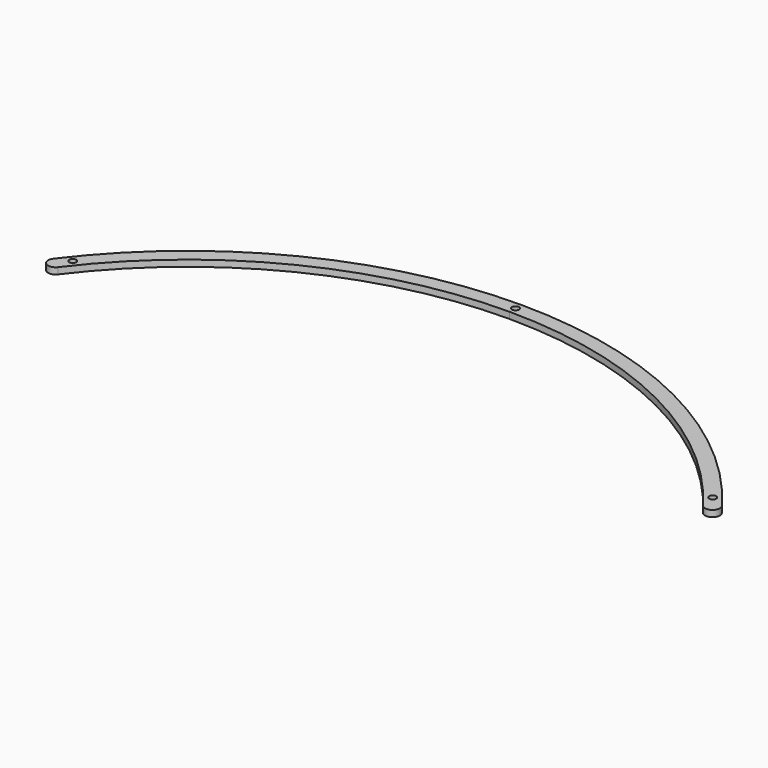
from build123d import *

# Parameters (mm, degrees)
PAD015_DEPTH                        = 3
SKETCH054_R                         = 1.65
POCKET018_DEPTH                     = 358.938883
POCKET018_DEPTH_BACK                = 361.938883
BODY001003005003004_PLACEMENT_ANGLE = 60
CLONE027_PLACEMENT_ANGLE            = 60


with BuildPart() as part:
    # Sketch053 → Pad015 (new body)
    with BuildSketch(Plane.XY):
        with BuildLine():
            ThreePointArc((152.005097, 113.785532), (84.992984, 169.790723), (0, 189.875477))
            Line((0, 189.875477), (0, 196.875477))
            ThreePointArc((157.608957, 117.98038), (88.126358, 176.050273), (0, 196.875477))
            ThreePointArc((152.005097, 113.785532), (156.904451, 113.081026), (157.608957, 117.98038))
        make_face()
    pad015 = extrude(amount=PAD015_DEPTH)

    # Sketch054 → Pocket018 (cut, two sides)
    with BuildSketch(Plane.XY) as pocket018_sk:
        with Locations((150.82443, 121.020933)):
            Circle(SKETCH054_R)
        with BuildLine():
            ThreePointArc((0, 191.725477), (1.65, 193.375477), (0, 195.025477))
            Line((0, 191.725477), (0, 195.025477))
        make_face()
    pocket018 = extrude(amount=-POCKET018_DEPTH, mode=Mode.SUBTRACT) + extrude(pocket018_sk.sketch, amount=POCKET018_DEPTH_BACK, mode=Mode.SUBTRACT)

    # Mirrored020: Pad015, Pocket018 across Sketch053 V_Axis
    add(pad015.mirror(Plane(origin=(0, 0, 0), x_dir=(0, 0, 1), z_dir=(1, 0, 0))))
    add(pocket018.mirror(Plane(origin=(0, 0, 0), x_dir=(0, 0, 1), z_dir=(1, 0, 0))), mode=Mode.SUBTRACT)


with BuildPart() as part_1:
    # Body001003005003004 placement: moved
    add(part.part.rotate(Axis((0, 0, 0), (0, 0, 1)), BODY001003005003004_PLACEMENT_ANGLE))


with BuildPart() as part_2:
    # Clone027 placement: moved
    add(part_1.part.moved(Location((0, -83, 0))).rotate(Axis((0, -83, 0), (0, 0, -1)), CLONE027_PLACEMENT_ANGLE))


solid = part_2.part
